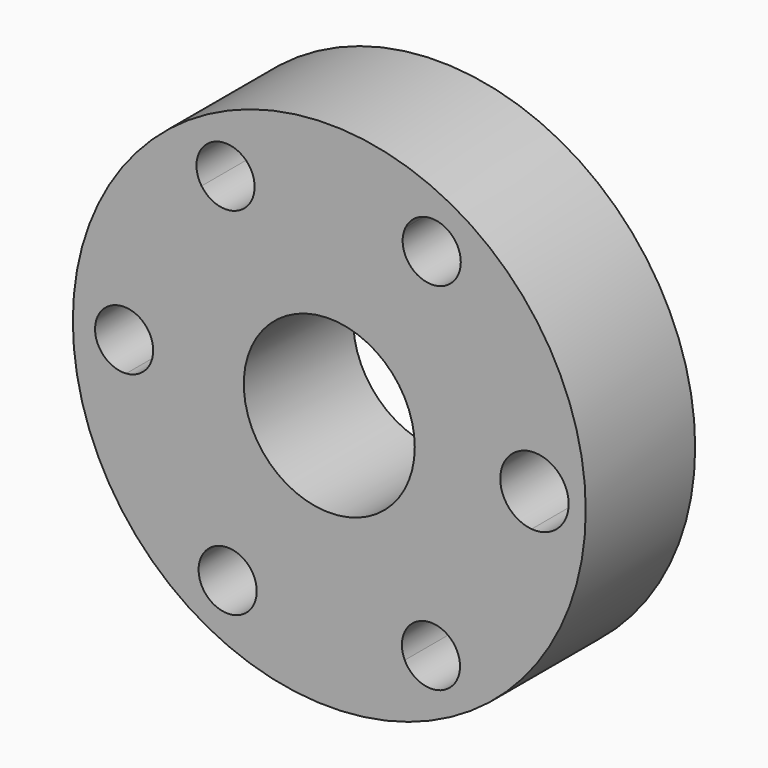
from build123d import *

# Parameters (mm, degrees)
F0_R     = 95.25
F0_R_2   = 31.75
F1_DEPTH = 50.8


with BuildPart() as f1:
    # F0 (on Front) → F1 (new body)
    with BuildSketch(Plane.XZ):
        Circle(F0_R)
        with BuildLine():
            ThreePointArc((46.990183, 59.986354), (65.491159, 38.953153), (75.141667, 12.655826))
            ThreePointArc((75.141667, 12.655826), (84.797941, 9.346947), (88.9, 0))
            ThreePointArc((88.9, 0), (84.797941, -9.346947), (75.141667, -12.655826))
            ThreePointArc((75.141667, -12.655826), (65.407135, -39.094076), (46.731427, -60.188153))
            ThreePointArc((46.731427, -60.188153), (48.087021, -63.052889), (48.552253, -66.187838))
            ThreePointArc((48.552253, -66.187838), (40.152635, -76.713719), (28.025311, -70.85917))
            ThreePointArc((28.025311, -70.85917), (0.009492, -76.199999), (-28.007657, -70.86615))
            ThreePointArc((-28.007657, -70.86615), (-43.08737, -75.575185), (-46.716431, -60.199793))
            ThreePointArc((-46.716431, -60.199793), (-65.887351, -38.279198), (-75.435354, -10.767885))
            ThreePointArc((-75.435354, -10.767885), (-86.995, 0), (-75.435354, 10.767885))
            ThreePointArc((-75.435354, 10.767885), (-66.114858, 37.884899), (-47.432359, 59.637332))
            ThreePointArc((-47.432359, 59.637332), (-43.987261, 75.054986), (-28.852362, 70.526458))
            ThreePointArc((-28.852362, 70.526458), (-0.281663, 76.199479), (28.330193, 70.737827))
            ThreePointArc((28.330193, 70.737827), (40.459969, 76.545328), (48.836928, 66.024629))
            ThreePointArc((48.836928, 66.024629), (48.364923, 62.867446), (46.990183, 59.986354))
        make_face(mode=Mode.SUBTRACT)
        with BuildLine():
            ThreePointArc((75.141667, -12.655826), (63.5, 0), (75.141667, 12.655826))
            ThreePointArc((75.141667, 12.655826), (65.491159, 38.953153), (46.990183, 59.986354))
            ThreePointArc((46.990183, 59.986354), (32.652655, 56.67114), (28.330193, 70.737827))
            ThreePointArc((28.330193, 70.737827), (-0.281663, 76.199479), (-28.852362, 70.526458))
            ThreePointArc((-28.852362, 70.526458), (-28.017299, 68.198506), (-27.733988, 65.741593))
            ThreePointArc((-27.733988, 65.741593), (-35.333668, 55.430339), (-47.432359, 59.637332))
            ThreePointArc((-47.432359, 59.637332), (-66.114858, 37.884899), (-75.435354, 10.767885))
            ThreePointArc((-75.435354, 10.767885), (-68.301064, 7.35791), (-65.405, 0))
            ThreePointArc((-65.405, 0), (-68.301064, -7.35791), (-75.435354, -10.767885))
            ThreePointArc((-75.435354, -10.767885), (-65.887351, -38.279198), (-46.716431, -60.199793))
            ThreePointArc((-46.716431, -60.199793), (-34.607099, -55.867083), (-26.945762, -66.197242))
            ThreePointArc((-26.945762, -66.197242), (-27.214583, -68.591314), (-28.007657, -70.86615))
            ThreePointArc((-28.007657, -70.86615), (0.009492, -76.199999), (28.025311, -70.85917))
            ThreePointArc((28.025311, -70.85917), (32.408308, -56.811228), (46.731427, -60.188153))
            ThreePointArc((46.731427, -60.188153), (65.407135, -39.094076), (75.141667, -12.655826))
        make_face()
        Circle(F0_R_2, mode=Mode.SUBTRACT)
    extrude(amount=F1_DEPTH)


solid = f1.part
